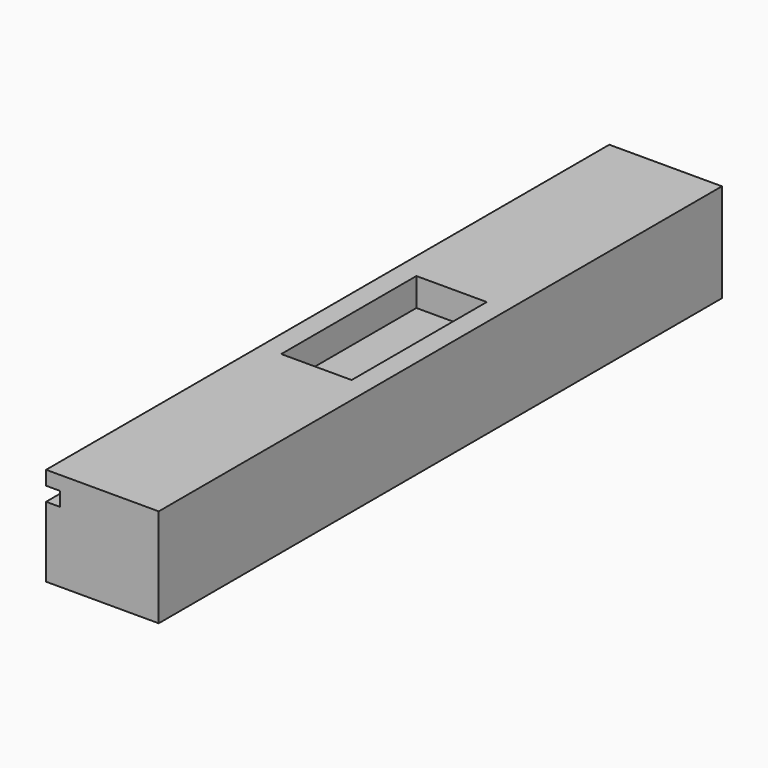
from build123d import *

# Parameters (mm, degrees)
F0_W     = 8
F0_H     = 50
F1_DEPTH = 7
F2_W     = 50
F2_H     = 1
F3_DEPTH = 1
F4_W     = 5
F4_H     = 12
F5_DEPTH = 2


with BuildPart() as f1:
    # F0 (on Top) → F1 (new body)
    with BuildSketch(Plane.XY):
        Rectangle(F0_W, F0_H)
    extrude(amount=F1_DEPTH)

    # F2 (on face) → F3 (cut)
    with BuildSketch(Plane(origin=(-4, 0, 0), x_dir=(0, -1, 0), z_dir=(-1, 0, 0))):
        with Locations((0, 5.5)):
            Rectangle(F2_W, F2_H)
    extrude(amount=-F3_DEPTH, mode=Mode.SUBTRACT)

    # F4 (on face) → F5 (cut)
    with BuildSketch(Plane.XY.offset(7)):
        Rectangle(F4_W, F4_H)
    extrude(amount=-F5_DEPTH, mode=Mode.SUBTRACT)


solid = f1.part
